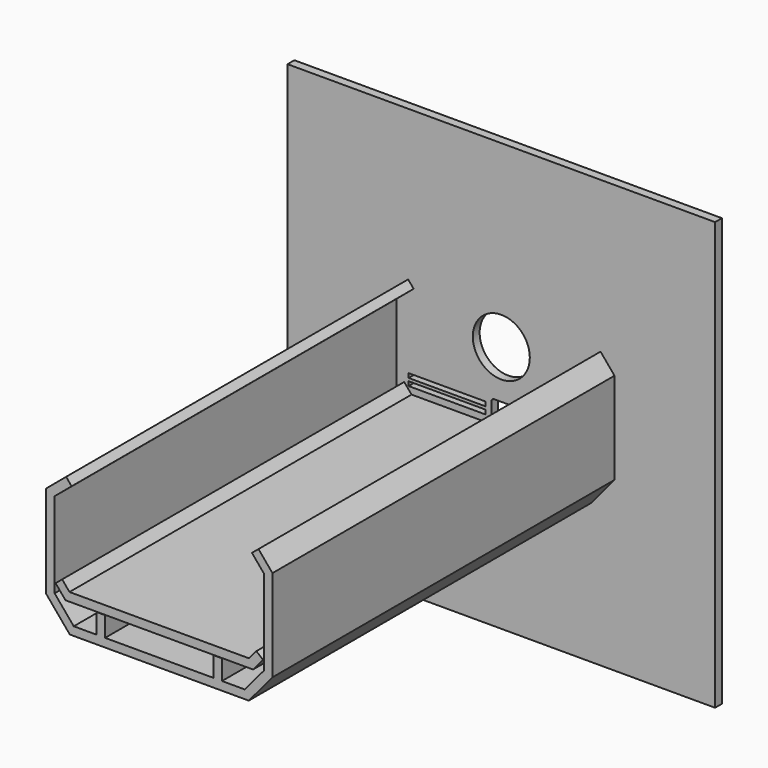
from build123d import *

# Parameters (mm, degrees)
F0_W     = 150
F0_H     = 150
F1_DEPTH = 3
F2_W     = 3
F2_H     = 7
F3_DEPTH = 150
F2_R     = 10
F2_W_2   = 27
F2_H_2   = 1.5
F4_DEPTH = 3.001


with BuildPart() as f1:
    # F0 (on Front) → F1 (new body)
    with BuildSketch(Plane.XZ):
        Rectangle(F0_W, F0_H)
    extrude(amount=F1_DEPTH)

    # F2 (on face) → F3 (join)
    with BuildSketch(Plane.XZ.offset(3)):
        Polygon((-36.712797, 15), (-30.754029, 20), (-32.682392, 22.298133), (-39.712797, 16.398923), (-39.712797, -16.091911), (-31.398923, -26), (31.398923, -26), (39.712797, -16.091911), (39.712797, 16.091911), (34.815432, 21.928363), (32.517299, 20), (36.712797, 15), (36.712797, -15), (30, -23), (22, -23), (19, -23), (-19, -23), (-22, -23), (-30, -23), (-36.712797, -15), align=None)
        with Locations((-20.5, -19.5)):
            Rectangle(F2_W, F2_H)
        Polygon((-31.5, -12.9), (-34.07115, -9.835822), (-36.369284, -11.764185), (-32.898923, -15.9), (32.898923, -15.9), (36.369284, -11.764185), (34.07115, -9.835822), (31.5, -12.9), align=None)
        with Locations((20.5, -19.5)):
            Rectangle(F2_W, F2_H)
    extrude(amount=F3_DEPTH)

    # F2 (on face) → F4 (cut, through all)
    with BuildSketch(Plane.XZ.offset(3)):
        with Locations((0, 12)):
            Circle(F2_R)
        with BuildLine():
            ThreePointArc((-29, -17), (-29.707107, -17.292893), (-30, -18))
            Line((-30, -18), (-30, -21))
            ThreePointArc((-30, -21), (-29.707107, -21.707107), (-29, -22))
            Line((-29, -22), (-24, -22))
            ThreePointArc((-24, -22), (-23.292893, -21.707107), (-23, -21))
            Line((-23, -21), (-23, -18))
            ThreePointArc((-23, -18), (-23.292893, -17.292893), (-24, -17))
            Line((-24, -17), (-29, -17))
        make_face()
        with BuildLine():
            Line((17, -17), (-17, -17))
            ThreePointArc((-17, -17), (-17.707107, -17.292893), (-18, -18))
            Line((-18, -18), (-18, -21))
            ThreePointArc((-18, -21), (-17.707107, -21.707107), (-17, -22))
            Line((-17, -22), (17, -22))
            ThreePointArc((17, -22), (17.707107, -21.707107), (18, -21))
            Line((18, -21), (18, -18))
            ThreePointArc((18, -18), (17.707107, -17.292893), (17, -17))
        make_face()
        with BuildLine():
            Line((29, -17), (24, -17))
            ThreePointArc((24, -17), (23.292893, -17.292893), (23, -18))
            Line((23, -18), (23, -21))
            ThreePointArc((23, -21), (23.292893, -21.707107), (24, -22))
            Line((24, -22), (29, -22))
            ThreePointArc((29, -22), (29.707107, -21.707107), (30, -21))
            Line((30, -21), (30, -18))
            ThreePointArc((30, -18), (29.707107, -17.292893), (29, -17))
        make_face()
        with BuildLine():
            Line((2.5, -4.9), (-2.5, -4.9))
            ThreePointArc((-2.5, -4.9), (-3.207107, -5.192893), (-3.5, -5.9))
            Line((-3.5, -5.9), (-3.5, -10.9))
            ThreePointArc((-3.5, -10.9), (-3.207107, -11.607107), (-2.5, -11.9))
            Line((-2.5, -11.9), (2.5, -11.9))
            ThreePointArc((2.5, -11.9), (3.207107, -11.607107), (3.5, -10.9))
            Line((3.5, -10.9), (3.5, -5.9))
            ThreePointArc((3.5, -5.9), (3.207107, -5.192893), (2.5, -4.9))
        make_face()
        with Locations((-19, -7.35)):
            Rectangle(F2_W_2, F2_H_2)
        with Locations((-19, -9.85)):
            Rectangle(F2_W_2, F2_H_2)
        with Locations((19, -7.35)):
            Rectangle(F2_W_2, F2_H_2)
        with Locations((19, -9.85)):
            Rectangle(F2_W_2, F2_H_2)
    extrude(amount=-F4_DEPTH, mode=Mode.SUBTRACT)


solid = f1.part
